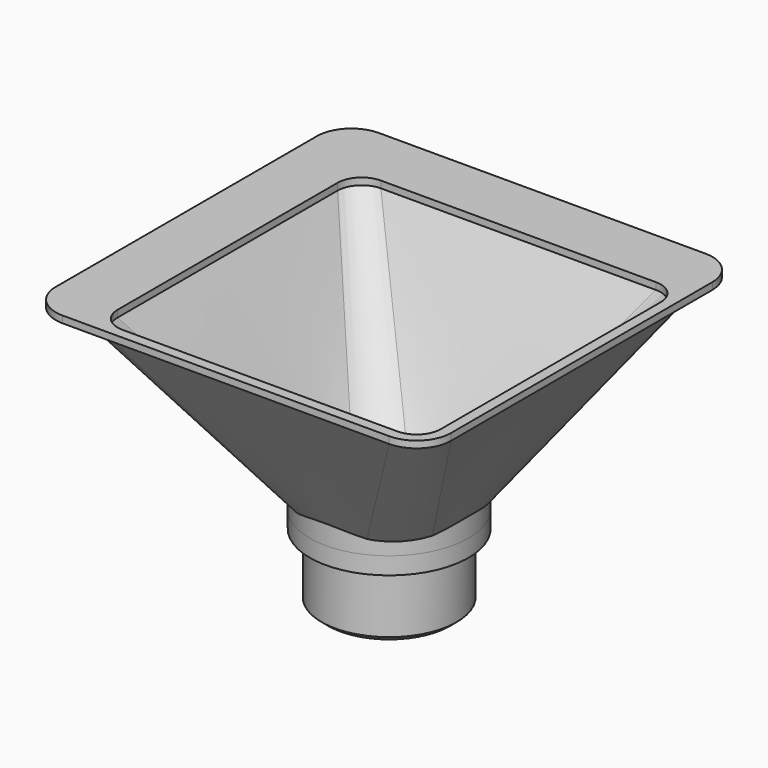
from build123d import *

# Parameters (mm, degrees)
REVOLUTION004_FACE6_R = 23.05
PAD006_DEPTH          = 10
PAD007_DEPTH          = 2
PAD008_DEPTH          = 2


with BuildPart() as part:
    # Sketch016 → Revolution003 (revolve)
    with BuildSketch(Plane.YZ):
        Polygon((19.625, -22.587589), (19.625, 0), (16.75, 0), (16.75, -24.1609), (17.75, -24.1609), align=None)
    revolve(axis=Axis((0, 0, 0), (0, 0, 1)))

    # Export → Loft section 0
    with BuildSketch(Plane.XY):
        with BuildLine():
            ThreePointArc((7.510162, 18.131136), (0, 19.625), (-7.510162, 18.131136))
            ThreePointArc((-7.510162, 18.131136), (-13.876971, 13.876971), (-18.131136, 7.510162))
            ThreePointArc((-18.131136, 7.510162), (-19.625, 0), (-18.131136, -7.510162))
            ThreePointArc((-18.131136, -7.510162), (-13.876971, -13.876971), (-7.510162, -18.131136))
            ThreePointArc((-7.510162, -18.131136), (0, -19.625), (7.510162, -18.131136))
            ThreePointArc((7.510162, -18.131136), (13.876971, -13.876971), (18.131136, -7.510162))
            ThreePointArc((18.131136, -7.510162), (19.625, 0), (18.131136, 7.510162))
            ThreePointArc((18.131136, 7.510162), (13.876971, 13.876971), (7.510162, 18.131136))
        make_face()
    # Export002 → Loft section 1
    with BuildSketch(Plane.XY.offset(50)):
        with BuildLine():
            Line((-50, 40), (-50, -40))
            ThreePointArc((-50, -40), (-47.071068, -47.071068), (-40, -50))
            Line((-40, -50), (40, -50))
            ThreePointArc((40, -50), (47.071068, -47.071068), (50, -40))
            Line((50, -40), (50, 40))
            ThreePointArc((50, 40), (47.071068, 47.071068), (40, 50))
            Line((40, 50), (-40, 50))
            ThreePointArc((-40, 50), (-47.071068, 47.071068), (-50, 40))
        make_face()
    loft()

    # Sketch020 → Revolution004 (revolve)
    with BuildSketch(Plane.YZ):
        Polygon((23.05, 0), (16.75, 0), (16.75, -5), (19.625, -5), (23.05, -5), align=None)
    revolve(axis=Axis((0, 0, 0), (0, 0, 1)))

    # Revolution004 Face6 → Pad006 (new)
    with BuildSketch(Plane(origin=(0, 0, 0), x_dir=(0, 1, 0), z_dir=(0, 0, 1))):
        Circle(REVOLUTION004_FACE6_R)
        with BuildLine():
            ThreePointArc((19.625, 0), (19.247911, -3.828648), (18.131136, -7.510162))
            ThreePointArc((18.131136, -7.510162), (13.876971, -13.876971), (7.510162, -18.131136))
            ThreePointArc((7.510162, -18.131136), (0, -19.625), (-7.510162, -18.131136))
            ThreePointArc((-7.510162, -18.131136), (-13.876971, -13.876971), (-18.131136, -7.510162))
            ThreePointArc((-18.131136, -7.510162), (-19.625, 0), (-18.131136, 7.510162))
            ThreePointArc((-18.131136, 7.510162), (-13.876971, 13.876971), (-7.510162, 18.131136))
            ThreePointArc((-7.510162, 18.131136), (0, 19.625), (7.510162, 18.131136))
            ThreePointArc((7.510162, 18.131136), (13.876971, 13.876971), (18.131136, 7.510162))
            ThreePointArc((18.131136, 7.510162), (19.247911, 3.828648), (19.625, 0))
        make_face(mode=Mode.SUBTRACT)
    extrude(amount=PAD006_DEPTH)

    # Export003 → Loft001 section 0
    with BuildSketch(Plane.XY):
        with BuildLine():
            ThreePointArc((6.409947, 15.474982), (0, 16.75), (-6.409947, 15.474982))
            ThreePointArc((-6.409947, 15.474982), (-11.844039, 11.844039), (-15.474982, 6.409947))
            ThreePointArc((-15.474982, 6.409947), (-16.75, 0), (-15.474982, -6.409947))
            ThreePointArc((-15.474982, -6.409947), (-11.844039, -11.844039), (-6.409947, -15.474982))
            ThreePointArc((-6.409947, -15.474982), (0, -16.75), (6.409947, -15.474982))
            ThreePointArc((6.409947, -15.474982), (11.844039, -11.844039), (15.474982, -6.409947))
            ThreePointArc((15.474982, -6.409947), (16.75, 0), (15.474982, 6.409947))
            ThreePointArc((15.474982, 6.409947), (11.844039, 11.844039), (6.409947, 15.474982))
        make_face()
    # Export004 → Loft001 section 1
    with BuildSketch(Plane.XY.offset(50)):
        with BuildLine():
            Line((-47, 40), (-47, -40))
            ThreePointArc((-47, -40), (-44.949747, -44.949747), (-40, -47))
            Line((-40, -47), (40, -47))
            ThreePointArc((40, -47), (44.949747, -44.949747), (47, -40))
            Line((47, -40), (47, 40))
            ThreePointArc((47, 40), (44.949747, 44.949747), (40, 47))
            Line((40, 47), (-40, 47))
            ThreePointArc((-40, 47), (-44.949747, 44.949747), (-47, 40))
        make_face()
    loft(mode=Mode.SUBTRACT)

    # Loft001 Face13 → Pad007 (add)
    with BuildSketch(Plane(origin=(0, 0, 50), x_dir=(0, 1, 0), z_dir=(0, 0, 1))):
        with BuildLine():
            Line((40, 50), (-40, 50))
            ThreePointArc((-40, 50), (-47.071068, 47.071068), (-50, 40))
            Line((-50, 40), (-50, -40))
            ThreePointArc((-50, -40), (-47.071068, -47.071068), (-40, -50))
            Line((-40, -50), (40, -50))
            ThreePointArc((40, -50), (47.071068, -47.071068), (50, -40))
            Line((50, -40), (50, 40))
            ThreePointArc((50, 40), (47.071068, 47.071068), (40, 50))
        make_face()
        with BuildLine():
            Line((47, 40), (47, -40))
            ThreePointArc((47, -40), (44.949747, -44.949747), (40, -47))
            Line((40, -47), (-40, -47))
            ThreePointArc((-40, -47), (-44.949747, -44.949747), (-47, -40))
            Line((-47, -40), (-47, 40))
            ThreePointArc((-47, 40), (-44.949747, 44.949747), (-40, 47))
            Line((-40, 47), (40, 47))
            ThreePointArc((40, 47), (44.949747, 44.949747), (47, 40))
        make_face(mode=Mode.SUBTRACT)
    extrude(amount=PAD007_DEPTH)

    # Sketch019 (on Sketch) → Pad008 (join)
    with BuildSketch(Plane.XY.offset(50)):
        with BuildLine():
            ThreePointArc((50, 55), (47.071068, 62.071068), (40, 65))
            Line((40, 65), (-55, 65))
            ThreePointArc((-55, 65), (-62.071068, 62.071068), (-65, 55))
            Line((-65, 55), (-65, -40))
            ThreePointArc((-65, -40), (-62.071068, -47.071068), (-55, -50))
            Line((-55, -50), (-40, -50))
            Line((-40, -50), (-40, -47))
            ThreePointArc((-40, -47), (-44.949747, -44.949747), (-47, -40))
            Line((-47, -40), (-47, 40))
            ThreePointArc((-47, 40), (-44.949747, 44.949747), (-40, 47))
            Line((-40, 47), (40, 47))
            ThreePointArc((40, 47), (44.949747, 44.949747), (47, 40))
            Line((47, 40), (50, 40))
            Line((50, 40), (50, 55))
        make_face()
    extrude(amount=PAD008_DEPTH)


solid = part.part
